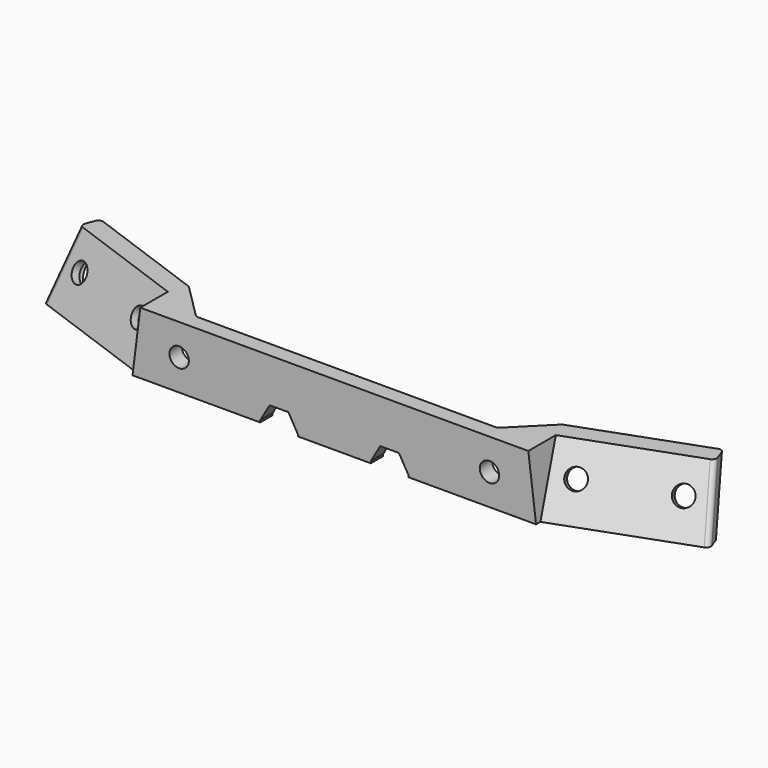
from build123d import *

# Parameters (mm, degrees)
SKETCH065_R     = 1.25
POCKET_DEPTH    = 33.154115
SKETCH066_R     = 1.25
POCKET034_DEPTH = 33.154115
SKETCH067_R     = 1.25
POCKET035_DEPTH = 15.132038
POCKET036_DEPTH = 10.332038
POCKET037_DEPTH = 15.132038
SKETCH069_R     = 2.1
POCKET038_DEPTH = 30.154115
SKETCH070_R     = 2.1
POCKET039_DEPTH = 30.154115


with BuildPart() as part:
    # Sketch → AdditiveLoft section 0
    with BuildSketch(Plane.XY):
        with BuildLine():
            Line((-26, 2.8), (26, 2.8))
            Line((26, 2.8), (26, 3.5))
            Line((26, 3.5), (42.350652, 9.45115))
            ThreePointArc((42.350652, 9.45115), (42.689224, 9.761395), (42.709255, 10.220178))
            Line((42.709255, 10.220178), (42.298831, 11.347809))
            ThreePointArc((42.298831, 11.347809), (41.988586, 11.686382), (41.529803, 11.706413))
            Line((41.529803, 11.706413), (25.179152, 5.755262))
            ThreePointArc((25.179152, 5.755262), (25.061984, 5.697482), (24.9601, 5.615711))
            Line((24.9601, 5.615711), (24.320125, 4.975736))
            ThreePointArc((23.895861, 4.8), (24.125471, 4.845672), (24.320125, 4.975736))
            Line((-23.895861, 4.8), (23.895861, 4.8))
            ThreePointArc((-24.320125, 4.975736), (-24.125471, 4.845672), (-23.895861, 4.8))
            Line((-24.320125, 4.975736), (-24.9601, 5.615711))
            ThreePointArc((-24.9601, 5.615711), (-25.061984, 5.697482), (-25.179152, 5.755262))
            Line((-41.529803, 11.706413), (-25.179152, 5.755262))
            ThreePointArc((-41.529803, 11.706413), (-41.988586, 11.686382), (-42.298831, 11.347809))
            Line((-42.709255, 10.220178), (-42.298831, 11.347809))
            ThreePointArc((-42.709255, 10.220178), (-42.689224, 9.761395), (-42.350652, 9.45115))
            Line((-26, 3.5), (-42.350652, 9.45115))
            Line((-26, 2.8), (-26, 3.5))
        make_face()
    # Sketch064 (on DatumPlane) → AdditiveLoft section 1
    with BuildSketch(Plane.XY.offset(8)):
        with BuildLine():
            Line((-25, 2.8), (25, 2.8))
            Line((25, 2.8), (25, 7.230461))
            Line((25, 7.230461), (40.410959, 12.839592))
            ThreePointArc((40.410959, 12.839592), (40.749532, 13.149836), (40.769562, 13.608619))
            Line((40.769562, 13.608619), (40.359138, 14.73625))
            ThreePointArc((40.359138, 14.73625), (40.048894, 15.074823), (39.590111, 15.094854))
            Line((39.590111, 15.094854), (24.179152, 9.485724))
            ThreePointArc((24.179152, 9.485724), (24.061984, 9.427943), (23.9601, 9.346172))
            Line((23.9601, 9.346172), (19.589664, 4.975736))
            ThreePointArc((19.165399, 4.8), (19.39501, 4.845672), (19.589664, 4.975736))
            Line((-19.165399, 4.8), (19.165399, 4.8))
            ThreePointArc((-19.589664, 4.975736), (-19.39501, 4.845672), (-19.165399, 4.8))
            Line((-23.9601, 9.346172), (-19.589664, 4.975736))
            ThreePointArc((-23.9601, 9.346172), (-24.061984, 9.427943), (-24.179152, 9.485724))
            Line((-39.590111, 15.094854), (-24.179152, 9.485724))
            ThreePointArc((-39.590111, 15.094854), (-40.048894, 15.074823), (-40.359138, 14.73625))
            Line((-40.769562, 13.608619), (-40.359138, 14.73625))
            ThreePointArc((-40.769562, 13.608619), (-40.749532, 13.149836), (-40.410959, 12.839592))
            Line((-25, 7.230461), (-40.410959, 12.839592))
            Line((-25, 2.8), (-25, 7.230461))
        make_face()
    loft()

    # Sketch065 (on DatumPlane) → Pocket (cut, through all)
    with BuildSketch(Plane(origin=(35, 4.5, 0), x_dir=(0.939693, 0.34202, 0), z_dir=(0.309976, -0.851651, 0.422618))):
        with Locations((5.715, 5.715)):
            Circle(SKETCH065_R)
        with Locations((-5.715, 5.715)):
            Circle(SKETCH065_R)
    extrude(amount=-POCKET_DEPTH, mode=Mode.SUBTRACT)

    # Sketch066 (on DatumPlane) → Pocket034 (cut, through all)
    with BuildSketch(Plane(origin=(-35, 4.5, 0), x_dir=(0.939693, -0.34202, 0), z_dir=(-0.309976, -0.851651, 0.422618))):
        with Locations((5.715, 5.715)):
            Circle(SKETCH066_R)
        with Locations((-5.715, 5.715)):
            Circle(SKETCH066_R)
    extrude(amount=-POCKET034_DEPTH, mode=Mode.SUBTRACT)

    # Sketch067 → Pocket035 (cut, through all)
    with BuildSketch(Plane.XZ):
        with Locations((-20, 4)):
            Circle(SKETCH067_R)
        with Locations((20, 4)):
            Circle(SKETCH067_R)
    extrude(amount=-POCKET035_DEPTH, mode=Mode.SUBTRACT)

    # Sketch068 (on DatumPlane) → Pocket036 (cut, through all)
    with BuildSketch(Plane.XZ.offset(-4.8)):
        Polygon((-20, 6.424871), (-22.1, 5.212436), (-22.1, 2.787564), (-20, 1.575129), (-17.9, 2.787564), (-17.9, 5.212436), align=None)
        Polygon((20, 6.424871), (17.9, 5.212436), (17.9, 2.787564), (20, 1.575129), (22.1, 2.787564), (22.1, 5.212436), align=None)
    extrude(amount=-POCKET036_DEPTH, mode=Mode.SUBTRACT)

    # Sketch037 → Pocket037 (cut, through all)
    with BuildSketch(Plane.XZ):
        Polygon((-22.625, 12.924871), (-24.725, 11.712436), (-24.725, 9.287564), (-22.625, 8.075129), (-20.525, 9.287564), (-20.525, 11.712436), align=None)
        Polygon((4.700129, 20.75), (5.912564, 18.65), (8.337436, 18.65), (9.549871, 20.75), (8.337436, 22.85), (5.912564, 22.85), align=None)
        Polygon((9.549871, 0.25), (8.337436, 2.35), (5.912564, 2.35), (4.700129, 0.25), (4.700129, -7.75), (9.549871, -7.75), align=None)
        Polygon((-4.700129, 20.75), (-5.912564, 22.85), (-8.337436, 22.85), (-9.549871, 20.75), (-8.337436, 18.65), (-5.912564, 18.65), align=None)
        Polygon((-4.700129, 0.25), (-5.912564, 2.35), (-8.337436, 2.35), (-9.549871, 0.25), (-9.549871, -7.75), (-4.700129, -7.75), align=None)
        Polygon((22.625, 12.924871), (20.525, 11.712436), (20.525, 9.287564), (22.625, 8.075129), (24.725, 9.287564), (24.725, 11.712436), align=None)
    extrude(amount=-POCKET037_DEPTH, mode=Mode.SUBTRACT)

    # Sketch069 (on DatumPlane) → Pocket038 (cut, through all)
    with BuildSketch(Plane(origin=(34.070073, 7.054952, -1.267855), x_dir=(0.939693, 0.34202, 0), z_dir=(0.309976, -0.851651, 0.422618))):
        with Locations((5.715, 5.715)):
            Circle(SKETCH069_R)
        with Locations((-5.715, 5.715)):
            Circle(SKETCH069_R)
    extrude(amount=-POCKET038_DEPTH, mode=Mode.SUBTRACT)

    # Sketch070 (on DatumPlane) → Pocket039 (cut, through all)
    with BuildSketch(Plane(origin=(-34.070073, 7.054952, -1.267855), x_dir=(0.939693, -0.34202, 0), z_dir=(-0.309976, -0.851651, 0.422618))):
        with Locations((5.715, 5.715)):
            Circle(SKETCH070_R)
        with Locations((-5.715, 5.715)):
            Circle(SKETCH070_R)
    extrude(amount=-POCKET039_DEPTH, mode=Mode.SUBTRACT)


with BuildPart() as part_1:
    # Body placement: moved
    add(part.part.moved(Location((0, 0, 16.5))))


solid = part_1.part
